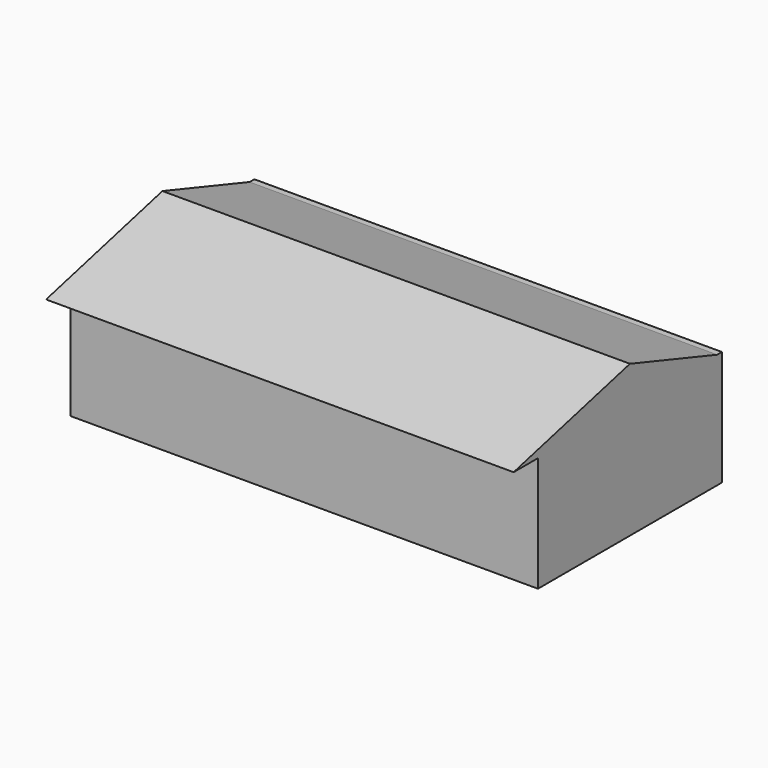
from build123d import *

# Parameters (mm, degrees)
F0_W     = 12200
F0_H     = 6000
F1_DEPTH = 3000
F3_DEPTH = 12200
F5_DEPTH = 12200


with BuildPart() as f1:
    # F0 (on Top) → F1 (new body)
    with BuildSketch(Plane.XY):
        with Locations((6100, -3000)):
            Rectangle(F0_W, F0_H)
    extrude(amount=F1_DEPTH)

    # F2 (on face) → F3 (join)
    with BuildSketch(Plane(origin=(0, 0, 0), x_dir=(0, -1, 0), z_dir=(-1, 0, 0))):
        Polygon((3000, 4000), (0, 3000), (7000, 3000), align=None)
    extrude(amount=-F3_DEPTH)

    # F4 (on face) → F5 (cut)
    with BuildSketch(Plane(origin=(0, 0, 0), x_dir=(0, -1, 0), z_dir=(-1, 0, 0))):
        Polygon((3000, 4000), (0, 3000), (154.616461, 3000), (3000, 3948.46118), (6793.844719, 3000), (7000, 3000), align=None)
    extrude(amount=-F5_DEPTH, mode=Mode.SUBTRACT)


solid = f1.part
